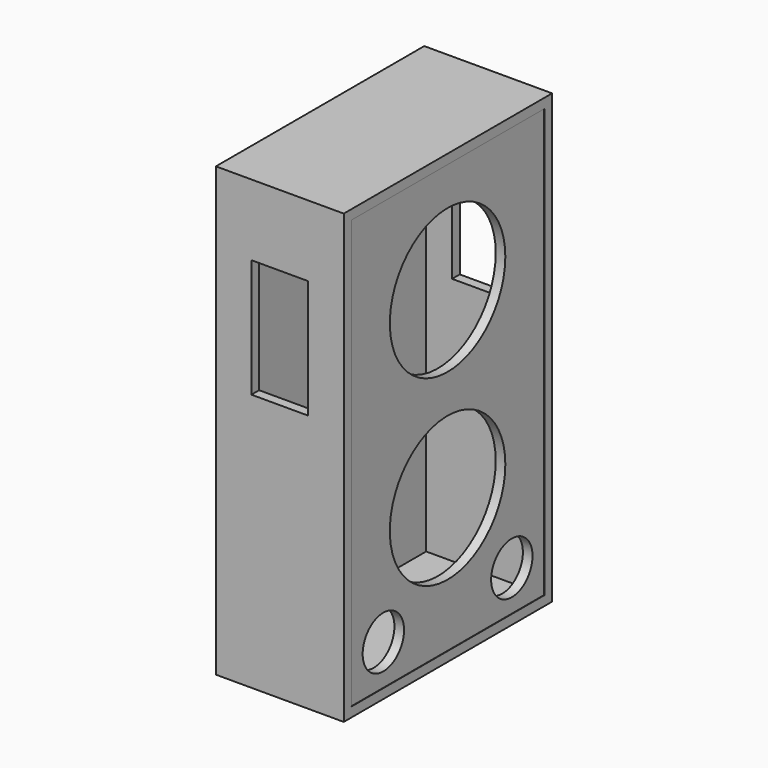
from build123d import *

# Parameters (mm, degrees)
F0_W      = 270.002
F0_H      = 549.91
F1_DEPTH  = 25.4
F2_W      = 270.002
F2_H      = 549.91
F3_DEPTH  = 919.48
F4_T      = -20.32
F5_START  = 228.6
F4_FACE_W = 509.27
F4_FACE_H = 904.24
F5_DEPTH  = 20.32
F7_DEPTH  = 25.4
F8_R      = 152.4
F9_DEPTH  = 25.4
F10_R     = 54.61
F11_DEPTH = 25.4
F12_R     = 54.61
F13_DEPTH = 25.4
F14_W     = 120
F14_H     = 250
F15_DEPTH = 22
F16_DEPTH = 55.88
F17_W     = 120
F17_H     = 250
F18_DEPTH = 50.8


with BuildPart() as f1:
    # F0 (on Top) → F1 (new body)
    with BuildSketch(Plane.XY):
        Rectangle(F0_W, F0_H)
    extrude(amount=F1_DEPTH)

    # F2 (on face) → F3 (join)
    with BuildSketch(Plane.XY.offset(25.4)):
        Rectangle(F2_W, F2_H)
    extrude(amount=F3_DEPTH)

    # F4
    f4_openings = [f1.faces().sort_by_distance(p)[0] for p in [
        (135.001, 0, 472.44),
    ]]
    offset(amount=F4_T, openings=f4_openings)

    # F4_face (on face) → F5 (join)
    with BuildSketch(Plane(origin=(-114.681, 0, 472.44), x_dir=(0, 1, 0), z_dir=(1, 0, 0)).offset(F5_START)):
        Rectangle(F4_FACE_W, F4_FACE_H)
    extrude(amount=F5_DEPTH)

    # F6 (on face) → F7 (cut)
    with BuildSketch(Plane.YZ.offset(134.239)):
        with BuildLine():
            ThreePointArc((0, 843.28), (-107.7630734528, 583.1169265472), (152.4, 690.88))
            ThreePointArc((152.4, 690.88), (107.7630734528, 798.6430734528), (0, 843.28))
        make_face()
    extrude(amount=-F7_DEPTH, mode=Mode.SUBTRACT)

    # F8 (on face) → F9 (cut)
    with BuildSketch(Plane.YZ.offset(134.239)):
        with Locations((0, 304.8)):
            Circle(F8_R)
    extrude(amount=-F9_DEPTH, mode=Mode.SUBTRACT)

    # F10 (on face) → F11 (cut)
    with BuildSketch(Plane.YZ.offset(134.239)):
        with Locations((-169.545, 105.41)):
            Circle(F10_R)
    extrude(amount=-F11_DEPTH, mode=Mode.SUBTRACT)

    # F12 (on face) → F13 (cut)
    with BuildSketch(Plane.YZ.offset(134.239)):
        with Locations((169.545, 105.41)):
            Circle(F12_R)
    extrude(amount=-F13_DEPTH, mode=Mode.SUBTRACT)

    # F14 (on face) → F15 (join)
    with BuildSketch(Plane.XZ.offset(274.955)):
        with Locations((-0.001, 669.88)):
            Rectangle(F14_W, F14_H)
    extrude(amount=-F15_DEPTH)

    # F14 (on face) → F16 (cut)
    with BuildSketch(Plane.XZ.offset(274.955)):
        with Locations((-0.001, 669.88)):
            Rectangle(F14_W, F14_H)
    extrude(amount=-F16_DEPTH, mode=Mode.SUBTRACT)

    # F17 (on face) → F18 (cut)
    with BuildSketch(Plane(origin=(0, 274.955, 0), x_dir=(-1, 0, 0), z_dir=(0, 1, 0))):
        with Locations((0.001, 669.88)):
            Rectangle(F17_W, F17_H)
    extrude(amount=-F18_DEPTH, mode=Mode.SUBTRACT)


solid = f1.part
